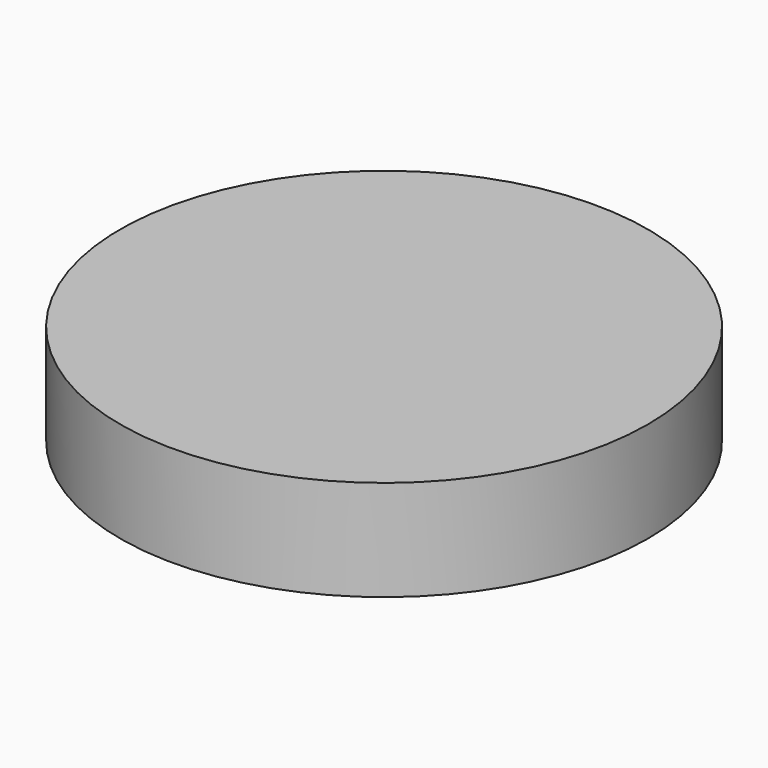
from build123d import *

# Parameters (mm, degrees)
F3_DEPTH = 3
F2_R     = 50
F4_DEPTH = 12.7
F5_R     = 50
F5_R_2   = 45
F6_DEPTH = 6.35


with BuildPart() as f3:
    # F2 (on Top) → F3 (new body)
    with BuildSketch(Plane.XY):
        with BuildLine():
            Line((0, 42), (0, 45))
            ThreePointArc((0, 45), (-31.8198051534, 31.8198051534), (-45, 0))
            Line((-45, 0), (-42, 0))
            ThreePointArc((-42, 0), (-29.6984848098, 29.6984848098), (0, 42))
        make_face()
    extrude(amount=F3_DEPTH)



with BuildPart() as f3b:
    # F2 (on Top) → F3, piece 2 (new body)
    with BuildSketch(Plane.XY):
        with BuildLine():
            ThreePointArc((0, -45), (31.8198051534, -31.8198051534), (45, 0))
            Line((45, 0), (42, 0))
            ThreePointArc((42, 0), (29.6984848098, -29.6984848098), (0, -42))
            Line((0, -42), (0, -45))
        make_face()
    extrude(amount=F3_DEPTH)


with BuildPart() as f3_1:
    add(f3.part)

    add(f3b.part)  # F4 merges F3b
    # F2 (on Top) → F4 (join)
    with BuildSketch(Plane.XY):
        Circle(F2_R)
        with BuildLine():
            ThreePointArc((0, 45), (31.8198051534, 31.8198051534), (45, 0))
            ThreePointArc((45, 0), (31.8198051534, -31.8198051534), (0, -45))
            ThreePointArc((0, -45), (-31.8198051534, -31.8198051534), (-45, 0))
            ThreePointArc((-45, 0), (-31.8198051534, 31.8198051534), (0, 45))
        make_face(mode=Mode.SUBTRACT)
    extrude(amount=F4_DEPTH)

    # F5 (on face) → F6 (join)
    with BuildSketch(Plane.XY.offset(12.7)):
        Circle(F5_R)
        Circle(F5_R_2, mode=Mode.SUBTRACT)
        Circle(F5_R_2)
    extrude(amount=F6_DEPTH)


solid = f3_1.part
